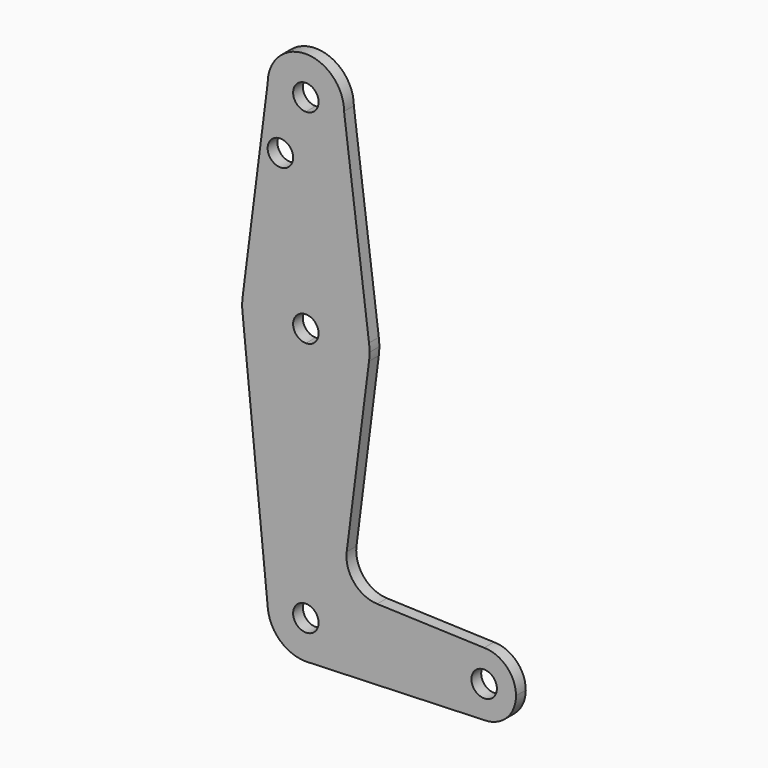
from build123d import *

# Parameters (mm, degrees)
F0_R     = 3.175
F1_DEPTH = 3.048


with BuildPart() as f1:
    # F0 (on Front) → F1 (new body)
    with BuildSketch(Plane.XZ):
        with BuildLine():
            Line((0.6794904459, -9.5007324841), (0, -9.525))
            ThreePointArc((0, -9.525), (0.3399618281, -9.5189311877), (0.6794904459, -9.5007324841))
        make_face()
        with BuildLine():
            Line((-15.7474569047, 61.4917106696), (-9.4773410414, -0.9516468803))
            ThreePointArc((-9.4773410414, -0.9516468803), (-7.0636414665, 6.3898821767), (0, 9.525))
            Line((0, 9.525), (0, 47.625))
            ThreePointArc((0, 47.625), (-10.4912828548, 51.5857812233), (-15.7474569047, 61.4917106696))
        make_face()
        with BuildLine():
            ThreePointArc((9.525, 0), (6.9712901065, -6.4905114784), (0.6794904459, -9.5007324841))
            Line((0.6794904459, -9.5007324841), (44.45, -7.9375))
            ThreePointArc((44.45, -7.9375), (38.8373399243, -5.6126600757), (36.5125, 0))
            Line((36.5125, 0), (9.525, 0))
        make_face()
        with BuildLine():
            Line((0, 104.775), (0, 79.375))
            ThreePointArc((0, 79.375), (10.4912828548, 75.4142187767), (15.7474569047, 65.5082893304))
            Line((15.7474569047, 65.5082893304), (9.525, 114.3))
            ThreePointArc((9.525, 114.3), (6.7351920908, 107.5648079092), (0, 104.775))
        make_face()
        with BuildLine():
            ThreePointArc((9.525, 114.3), (0, 123.825), (-9.525, 114.3))
            ThreePointArc((-9.525, 114.3), (-6.7351920908, 107.5648079092), (0, 104.775))
            ThreePointArc((0, 104.775), (6.7351920908, 107.5648079092), (9.525, 114.3))
        make_face()
        with BuildLine():
            ThreePointArc((3.175, 114.3), (2.2450640303, 112.0549359697), (0, 111.125))
            ThreePointArc((0, 111.125), (-2.2450640303, 116.5450640303), (3.175, 114.3))
        make_face(mode=Mode.SUBTRACT)
        with BuildLine():
            ThreePointArc((36.5125, 0), (38.8373399243, -5.6126600757), (44.45, -7.9375))
            ThreePointArc((44.45, -7.9375), (50.0626600757, -5.6126600757), (52.3875, 0))
            ThreePointArc((52.3875, 0), (50.0626600757, 5.6126600757), (44.45, 7.9375))
            ThreePointArc((44.45, 7.9375), (38.8373399243, 5.6126600757), (36.5125, 0))
        make_face()
        with BuildLine():
            ThreePointArc((47.625, 0), (44.45, -3.175), (41.275, 0))
            ThreePointArc((41.275, 0), (44.45, 3.175), (47.625, 0))
        make_face(mode=Mode.SUBTRACT)
        with BuildLine():
            Line((0, 60.325), (0, 47.625))
            ThreePointArc((0, 47.625), (10.4912828548, 51.5857812233), (15.7474569047, 61.4917106696))
            ThreePointArc((15.7474569047, 61.4917106696), (15.8430821396, 62.4938323604), (15.875, 63.5))
            ThreePointArc((15.875, 63.5), (15.8430821396, 64.5061676396), (15.7474569047, 65.5082893304))
            ThreePointArc((15.7474569047, 65.5082893304), (10.4912828548, 75.4142187767), (0, 79.375))
            Line((0, 79.375), (0, 66.675))
            ThreePointArc((0, 66.675), (2.2450640303, 65.7450640303), (3.175, 63.5))
            ThreePointArc((3.175, 63.5), (2.2450640303, 61.2549359697), (0, 60.325))
        make_face()
        with BuildLine():
            ThreePointArc((-15.7474569047, 65.5082893304), (-15.875, 63.5), (-15.7474569047, 61.4917106696))
            ThreePointArc((-15.7474569047, 61.4917106696), (-10.4912828548, 51.5857812233), (0, 47.625))
            Line((0, 47.625), (0, 60.325))
            ThreePointArc((0, 60.325), (-3.175, 63.5), (0, 66.675))
            Line((0, 66.675), (0, 79.375))
            ThreePointArc((0, 79.375), (-10.4912828548, 75.4142187767), (-15.7474569047, 65.5082893304))
        make_face()
        with BuildLine():
            Line((-9.525, 114.3), (-15.7474569047, 65.5082893304))
            ThreePointArc((-15.7474569047, 65.5082893304), (-10.4912828548, 75.4142187767), (0, 79.375))
            Line((0, 79.375), (0, 104.775))
            ThreePointArc((0, 104.775), (-6.7351920908, 107.5648079092), (-9.525, 114.3))
        make_face()
        with Locations((-6.35, 100.0252)):
            Circle(F0_R, mode=Mode.SUBTRACT)
        with BuildLine():
            Line((0, 47.625), (0, 9.525))
            ThreePointArc((0, 9.525), (6.7351920908, 6.7351920908), (9.525, 0))
            Line((9.525, 0), (36.5125, 0))
            ThreePointArc((36.5125, 0), (38.8373399243, 5.6126600757), (44.45, 7.9375))
            Line((44.45, 7.9375), (17.7825532299, 8.8935802069))
            ThreePointArc((17.7825532299, 8.8935802069), (12.0075791655, 11.6923910174), (10.1810740488, 17.8444269776))
            Line((10.1810740488, 17.8444269776), (15.7474569047, 61.4917106696))
            ThreePointArc((15.7474569047, 61.4917106696), (10.4912828548, 51.5857812233), (0, 47.625))
        make_face()
        with BuildLine():
            ThreePointArc((0, 9.525), (-7.0636414665, 6.3898821767), (-9.4773410414, -0.9516468803))
            ThreePointArc((-9.4773410414, -0.9516468803), (-6.3898821767, -7.0636414665), (0, -9.525))
            Line((0, -9.525), (0.6794904459, -9.5007324841))
            ThreePointArc((0.6794904459, -9.5007324841), (6.9712901065, -6.4905114784), (9.525, 0))
            Line((9.525, 0), (3.175, 0))
            ThreePointArc((3.175, 0), (-2.2450640303, -2.2450640303), (0, 3.175))
            Line((0, 3.175), (0, 9.525))
        make_face()
        with BuildLine():
            ThreePointArc((9.525, 0), (6.7351920908, 6.7351920908), (0, 9.525))
            Line((0, 9.525), (0, 3.175))
            ThreePointArc((0, 3.175), (2.2450640303, 2.2450640303), (3.175, 0))
            Line((3.175, 0), (9.525, 0))
        make_face()
    extrude(amount=F1_DEPTH)


solid = f1.part
